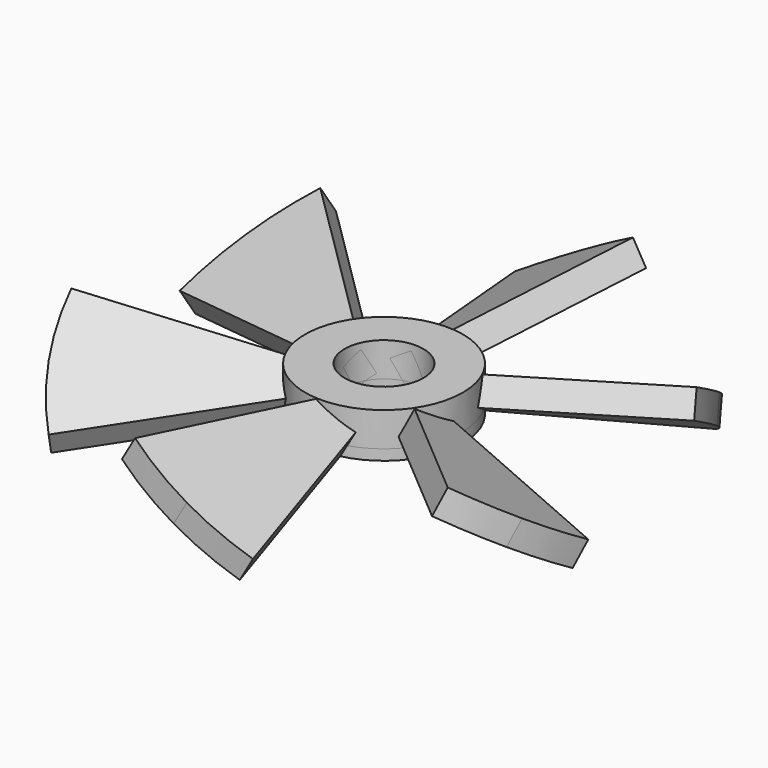
from build123d import *

# Parameters (mm, degrees)
F1_DEPTH      = 10
F3_ANGLE      = 30
F5_COUNT      = 6
F6_R          = 30
F6_R_2        = 15
F7_DEPTH      = 13
F7_DEPTH_BACK = 4
F8_R          = 15
F9_DEPTH      = 25
F9_DEPTH_BACK = 25


with BuildPart() as f1:
    # F0 (on Top) → F1 (new body)
    with BuildSketch(Plane.XY):
        with BuildLine():
            Line((0, 0), (25.8819045103, 96.5925826289))
            ThreePointArc((25.8819045103, 96.5925826289), (13.052619222, 99.1444861374), (0, 100))
            Line((0, 100), (0, 0))
        make_face()
        with BuildLine():
            Line((0, 0), (0, 100))
            ThreePointArc((0, 100), (-13.052619222, 99.1444861374), (-25.8819045103, 96.5925826289))
            Line((-25.8819045103, 96.5925826289), (0, 0))
        make_face()
    extrude(amount=F1_DEPTH)


with BuildPart() as f1_1:
    # F3: moved
    add(f1.part.rotate(Axis((0, 41.2369845435, 0), (0, -1, 0)), F3_ANGLE))

    # F5: F1 ×6 about axis
    f5_axis = Axis((0, 0, 3.0173412524), (0, 0, -1))


with BuildPart() as f1_2:
    add(f1_1.part)
    for i in range(1, F5_COUNT):
        add(f1_1.part.rotate(f5_axis, i * 360 / F5_COUNT))

    # F6 (on Top) → F7 (join, two sides)
    with BuildSketch(Plane.XY) as f7_sk:
        Circle(F6_R)
        Circle(F6_R_2, mode=Mode.SUBTRACT)
    extrude(amount=F7_DEPTH)
    extrude(f7_sk.sketch, amount=-F7_DEPTH_BACK)

    # F8 (on Top) → F9 (cut, two sides)
    with BuildSketch(Plane.XY) as f9_sk:
        Circle(F8_R)
    extrude(amount=-F9_DEPTH, mode=Mode.SUBTRACT)
    extrude(f9_sk.sketch, amount=F9_DEPTH_BACK, mode=Mode.SUBTRACT)


solid = f1_2.part
